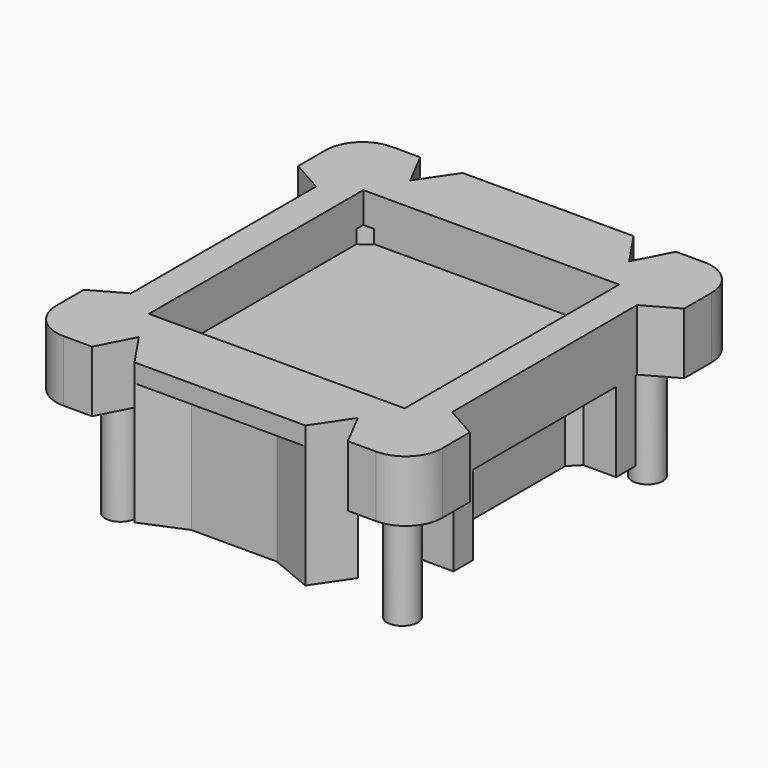
from build123d import *

# Parameters (mm, degrees)
F0_W      = 80
F0_H      = 85
F1_DEPTH  = 25.4
F2_W      = 53
F2_H      = 17
F3_DEPTH  = 27.7749
F4_W      = 80
F4_H      = 85
F5_DEPTH  = 12.7
F6_R      = 3.1623
F7_DEPTH  = 22.86
F8_W      = 25.4
F8_H      = 5.08
F9_DEPTH  = 25.4
F10_R     = 7.62
F11_R     = 7.62
F12_R     = 7.62
F13_R     = 7.62
F15_DEPTH = 16.51
F16_W     = 35
F16_H     = 50.8
F17_DEPTH = 25.4
F19_DEPTH = 38.1
F20_R     = 6.35
F20_R_2   = 3.81
F21_DEPTH = 6.35
F23_DEPTH = 29.21
F25_DEPTH = 25.4


with BuildPart() as f1:
    # F0 (on Top) → F1 (new body)
    with BuildSketch(Plane.XY):
        Rectangle(F0_W, F0_H)
    extrude(amount=F1_DEPTH)

    # F2 (on Front) → F3 (cut, symmetric)
    with BuildSketch(Plane.XZ):
        with Locations((0, 12.065)):
            Rectangle(F2_W, F2_H)
    extrude(amount=F3_DEPTH, both=True, mode=Mode.SUBTRACT)

    # F4 (on face) → F5 (cut)
    with BuildSketch(Plane.XY.offset(25.4)):
        Rectangle(F4_W, F4_H)
    extrude(amount=-F5_DEPTH, mode=Mode.SUBTRACT)

    # F6 (on face) → F7 (join)
    with BuildSketch(Plane(origin=(0, 0, 0), x_dir=(1, 0, 0), z_dir=(0, 0, -1))):
        with Locations((-29.21, 31.75)):
            Circle(F6_R)
        with Locations((29.21, 31.75)):
            Circle(F6_R)
        with Locations((29.21, -31.75)):
            Circle(F6_R)
        with Locations((-29.21, -31.75)):
            Circle(F6_R)
    extrude(amount=F7_DEPTH)

    # F8 (on face) → F9 (cut)
    with BuildSketch(Plane.XY.offset(3.565)):
        with Locations((0, -19.05)):
            Rectangle(F8_W, F8_H)
    extrude(amount=-F9_DEPTH, mode=Mode.SUBTRACT)

    # F10
    f10_edges = [f1.edges().sort_by_distance(p)[0] for p in [
        (-40, -42.5, 6.35),
    ]]
    fillet(f10_edges, radius=F10_R)

    # F11
    f11_edges = [f1.edges().sort_by_distance(p)[0] for p in [
        (-40, 42.5, 6.35),
    ]]
    fillet(f11_edges, radius=F11_R)

    # F12
    f12_edges = [f1.edges().sort_by_distance(p)[0] for p in [
        (40, 42.5, 6.35),
    ]]
    fillet(f12_edges, radius=F12_R)

    # F13
    f13_edges = [f1.edges().sort_by_distance(p)[0] for p in [
        (40, -42.5, 6.35),
    ]]
    fillet(f13_edges, radius=F13_R)

    # F14 (on face) → F15 (join)
    with BuildSketch(Plane(origin=(0, 0, 0), x_dir=(1, 0, 0), z_dir=(0, 0, -1))):
        Polygon((-19.2960512242, 16.4658580638), (-26.4802561211, 23.6500629607), (-34.1002561211, 23.6500629607), (-34.1002561211, 18.5700629607), (-26.4802561211, 18.5700629607), (-24.3760512242, 16.4658580638), (-24.3760512242, 8.2329290319), (-24.3760512242, 0), (-24.3760512242, -8.2329290319), (-24.3760512242, -16.4658580638), (-26.4802561211, -18.5700629607), (-34.1002561211, -18.5700629607), (-34.1002561211, -23.6500629607), (-26.4802561211, -23.6500629607), (-19.2960512242, -16.4658580638), (-17.5, -14.6698068396), (-17.5, 0), (-17.5, 14.6698068396), align=None)
        Polygon((19.2960498, -16.4658578227), (26.4802546969, -23.6500627196), (34.1002546969, -23.6500627196), (34.1002546969, -18.5700627196), (26.4802546969, -18.5700627196), (24.3760498, -16.4658578227), (24.3760498, -8.2329287908), (24.3760498, 2.411e-07), (24.3760498, 8.232929273), (24.3760498, 16.4658583049), (26.4802546969, 18.5700632018), (34.1002546969, 18.5700632018), (34.1002546969, 23.6500632018), (26.4802546969, 23.6500632018), (19.2960498, 16.4658583049), (17.5, 14.6698068396), (17.5, 0), (17.5, -14.6698068396), align=None)
    extrude(amount=F15_DEPTH)

    # F16 (on face) → F17 (cut)
    with BuildSketch(Plane(origin=(0, 0, 0), x_dir=(1, 0, 0), z_dir=(0, 0, -1))):
        Rectangle(F16_W, F16_H)
    extrude(amount=F17_DEPTH, mode=Mode.SUBTRACT)

    # F18 (on face) → F19 (cut, symmetric)
    with BuildSketch(Plane.XY.offset(3.565)):
        Polygon((-26.5, -42.5), (26.5, -42.5), (22.69, -35.13745), (-22.69, -35.13745), align=None)
        Polygon((33.3297468424, -24.0099126621), (40, -27.7749), (40, 27.7749), (33.25, 23.9649), align=None)
        Polygon((-26.5, 42.5), (-22.69, 35.13745), (22.69, 35.13745), (26.5, 42.5), align=None)
        Polygon((-33.25, -23.9649), (-33.25, 23.9649), (-40, 27.7749), (-40, -27.7749), align=None)
    extrude(amount=F19_DEPTH, both=True, mode=Mode.SUBTRACT)

    # F20 (on face) → F21 (cut)
    with BuildSketch(Plane(origin=(0, 0, 0), x_dir=(1, 0, 0), z_dir=(0, 0, -1))):
        with Locations((-29.21, 31.75)):
            Circle(F20_R)
        with Locations((-29.21, 31.75)):
            Circle(F20_R_2, mode=Mode.SUBTRACT)
        with Locations((29.21, 31.75)):
            Circle(F20_R)
        with Locations((29.21, 31.75)):
            Circle(F20_R_2, mode=Mode.SUBTRACT)
        with Locations((29.21, -31.75)):
            Circle(F20_R)
        with Locations((29.21, -31.75)):
            Circle(F20_R_2, mode=Mode.SUBTRACT)
        with Locations((-29.21, -31.75)):
            Circle(F20_R)
        with Locations((-29.21, -31.75)):
            Circle(F20_R_2, mode=Mode.SUBTRACT)
    extrude(amount=-F21_DEPTH, mode=Mode.SUBTRACT)

    # F22 (on face) → F23 (join)
    with BuildSketch(Plane.XY.offset(12.7)):
        Polygon((22.69, -35.13745), (-22.69, -35.13745), (-17.7075349979, -42.5), (17.7075349979, -42.5), align=None)
        Polygon((-17.7075349979, 42.5), (-22.69, 35.13745), (22.69, 35.13745), (17.7075349979, 42.5), align=None)
    extrude(amount=-F23_DEPTH)

    # F24 (on face) → F25 (cut)
    with BuildSketch(Plane(origin=(0, 0, -16.51), x_dir=(1, 0, 0), z_dir=(0, 0, -1))):
        Polygon((17.7075349979, 42.5), (-17.7075349979, 42.5), (-8.8537674989, 38.818725), (0, 38.818725), (8.8537674989, 38.818725), align=None)
    extrude(amount=-F25_DEPTH, mode=Mode.SUBTRACT)


solid = f1.part
